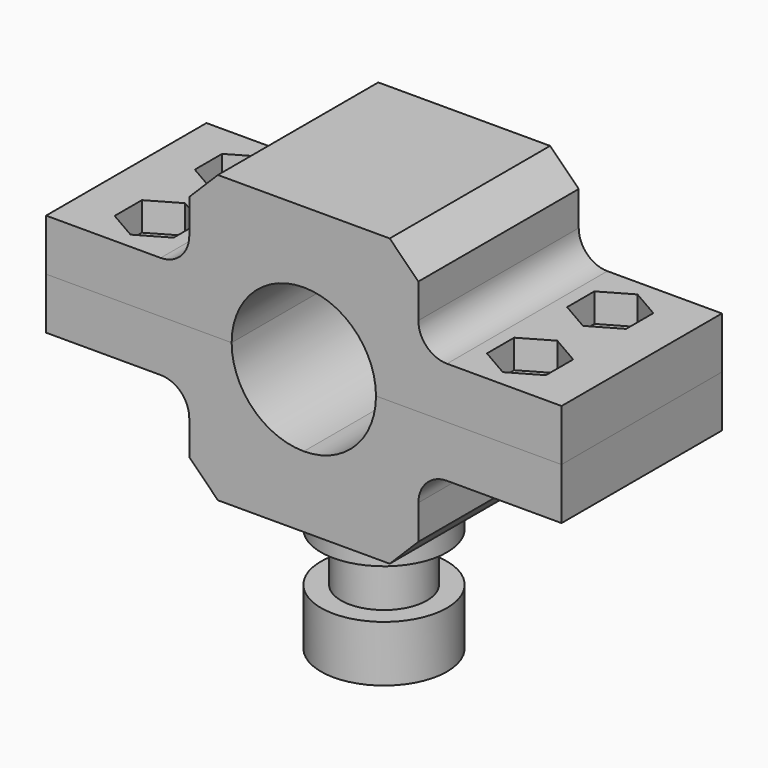
from build123d import *

# Parameters (mm, degrees)
F8_W      = 25
F8_H      = 9
F9_DEPTH  = 35
F0_R      = 3.15
F10_DEPTH = 5
F1_SIZE   = 5
F2_DEPTH  = 35
F3_SIZE   = 5
F11_R     = 11
F11_R_2   = 7.5
F4_DEPTH  = 25
F5_START  = 6.66327
F5_DEPTH  = 8.54696
F6_DEPTH  = 59.001
F7_R      = 5
F7_2_R    = 5


with BuildPart() as f9:
    # F8 (on Front) → F9 (new body)
    with BuildSketch(Plane.XZ):
        with BuildLine():
            ThreePointArc((-12.6, 0), (-8.909545443, 8.909545443), (0, 12.6))
            Line((0, 12.6), (0, 25))
            Line((0, 25), (-20, 25))
            Line((-20, 25), (-20, 9))
            Line((-20, 9), (-20, 0))
            Line((-20, 0), (-12.6, 0))
        make_face()
        Polygon((20, 9), (20, 0), (28.6917275764, 0), (45, 0), (45, 9), align=None)
        with Locations((-32.5, 4.5)):
            Rectangle(F8_W, F8_H)
        with BuildLine():
            ThreePointArc((0, 12.6), (8.909545443, 8.909545443), (12.6, 0))
            Line((12.6, 0), (20, 0))
            Line((20, 0), (20, 9))
            Line((20, 9), (20, 25))
            Line((20, 25), (0, 25))
            Line((0, 25), (0, 12.6))
        make_face()
    extrude(amount=F9_DEPTH)

    # F0 (on face) → F10 (cut)
    with BuildSketch(Plane.XY.offset(9)):
        Polygon((27.35, -11.7233538863), (32.5, -14.6967077727), (37.65, -11.7233538863), (37.65, -5.7766461137), (32.5, -2.8032922273), (27.35, -5.7766461137), align=None)
        with Locations((32.5, -8.75)):
            Circle(F0_R, mode=Mode.SUBTRACT)
        Polygon((27.35, -29.2233538863), (32.5, -32.1967077727), (37.65, -29.2233538863), (37.65, -23.2766461137), (32.5, -20.3032922273), (27.35, -23.2766461137), align=None)
        with Locations((32.5, -26.25)):
            Circle(F0_R, mode=Mode.SUBTRACT)
        Polygon((-27.35, -5.7766461137), (-32.5, -2.8032922273), (-37.65, -5.7766461137), (-37.65, -11.7233538863), (-32.5, -14.6967077727), (-27.35, -11.7233538863), align=None)
        with Locations((-32.5, -8.75)):
            Circle(F0_R, mode=Mode.SUBTRACT)
        Polygon((-32.5, -20.3032922273), (-37.65, -23.2766461137), (-37.65, -29.2233538863), (-32.5, -32.1967077727), (-27.35, -29.2233538863), (-27.35, -23.2766461137), align=None)
        with Locations((-32.5, -26.25)):
            Circle(F0_R, mode=Mode.SUBTRACT)
        with Locations((32.5, -8.75)):
            Circle(F0_R)
        with Locations((32.5, -26.25)):
            Circle(F0_R)
        with Locations((-32.5, -8.75)):
            Circle(F0_R)
        with Locations((-32.5, -26.25)):
            Circle(F0_R)
    extrude(amount=-F10_DEPTH, mode=Mode.SUBTRACT)

    # F1
    f1_edges = [f9.edges().sort_by_distance(p)[0] for p in [
        (-20, -17.5, 25),
        (20, -17.5, 25),
    ]]
    chamfer(f1_edges, length=F1_SIZE)


with BuildPart() as f2:
    # F8 (on Front) → F2 (new body, through all)
    with BuildSketch(Plane.XZ):
        with Locations((-32.5, -4.5)):
            Rectangle(F8_W, F8_H)
        Polygon((28.6917275764, 0), (20, 0), (20, -9), (45, -9), (45, 0), align=None)
        with BuildLine():
            Line((0, -25), (0, -12.6))
            ThreePointArc((0, -12.6), (-8.909545443, -8.909545443), (-12.6, 0))
            Line((-12.6, 0), (-20, 0))
            Line((-20, 0), (-20, -9))
            Line((-20, -9), (-20, -25))
            Line((-20, -25), (0, -25))
        make_face()
        with BuildLine():
            Line((20, 0), (12.6, 0))
            ThreePointArc((12.6, 0), (8.909545443, -8.909545443), (0, -12.6))
            Line((0, -12.6), (0, -25))
            Line((0, -25), (20, -25))
            Line((20, -25), (20, -9))
            Line((20, -9), (20, 0))
        make_face()
    extrude(amount=F2_DEPTH)

    # F3
    f3_edges = [f2.edges().sort_by_distance(p)[0] for p in [
        (-20, -17.5, -25),
        (20, -17.5, -25),
    ]]
    chamfer(f3_edges, length=F3_SIZE)

    # F11 (on face) → F4 (join)
    with BuildSketch(Plane(origin=(0, 0, -25), x_dir=(1, 0, 0), z_dir=(0, 0, -1))):
        with Locations((0, 17.5)):
            Circle(F11_R)
        with Locations((0, 17.5)):
            Circle(F11_R_2, mode=Mode.SUBTRACT)
        with Locations((0, 17.5)):
            Circle(F11_R_2)
    extrude(amount=F4_DEPTH)

    # F11 (on face) → F5 (cut)
    with BuildSketch(Plane(origin=(0, 0, -25), x_dir=(1, 0, 0), z_dir=(0, 0, -1)).offset(F5_START)):
        with Locations((0, 17.5)):
            Circle(F11_R)
        with Locations((0, 17.5)):
            Circle(F11_R_2, mode=Mode.SUBTRACT)
    extrude(amount=F5_DEPTH, mode=Mode.SUBTRACT)


with BuildPart() as f6_tool:
    # F0 (on face) → F6 (new body, through all)
    with BuildSketch(Plane.XY.offset(9)):
        with Locations((-32.5, -26.25)):
            Circle(F0_R)
        with Locations((-32.5, -8.75)):
            Circle(F0_R)
        with Locations((32.5, -8.75)):
            Circle(F0_R)
        with Locations((32.5, -26.25)):
            Circle(F0_R)
    extrude(amount=-F6_DEPTH)


with BuildPart() as f9_1:
    add(f9.part)

    # F6: cut by f6_tool
    add(f6_tool.part, mode=Mode.SUBTRACT)

    # F7
    f7_edges = [f9_1.edges().sort_by_distance(p)[0] for p in [
        (-20, -17.5, 9),
        (20, -17.5, 9),
    ]]
    fillet(f7_edges, radius=F7_R)


with BuildPart() as f2_1:
    add(f2.part)

    # F6: cut by f6_tool
    add(f6_tool.part, mode=Mode.SUBTRACT)

    # F7#2
    f7_2_edges = [f2_1.edges().sort_by_distance(p)[0] for p in [
        (20, -17.5, -9),
        (-20, -17.5, -9),
    ]]
    fillet(f7_2_edges, radius=F7_2_R)


solid = Compound([f9_1.part, f2_1.part])
